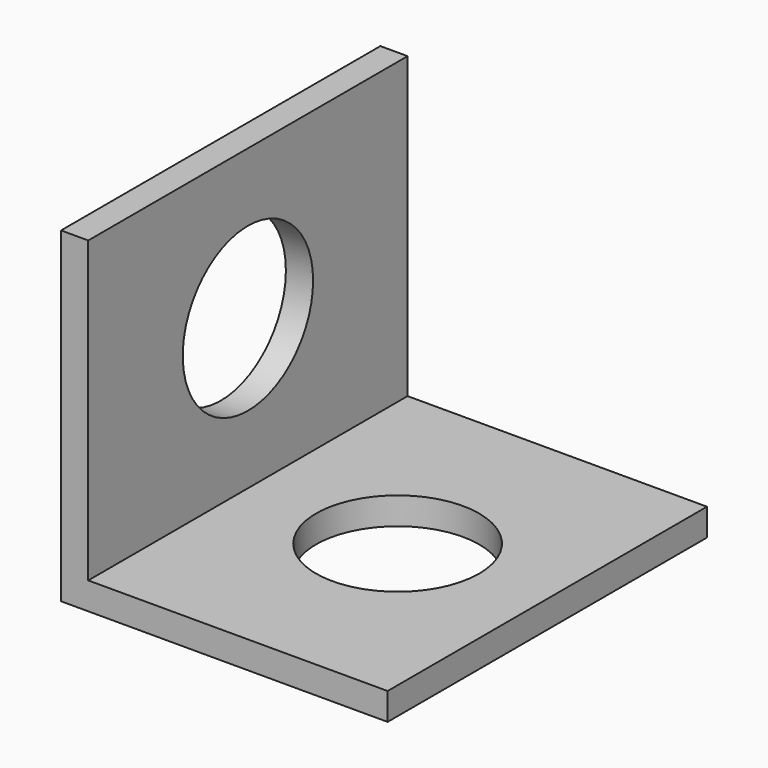
from build123d import *

# Parameters (mm, degrees)
F0_W          = 9.14383
F0_H          = 9.140982
F1_DEPTH      = 5.588
F1_DEPTH_BACK = 5.588
F2_T          = -0.762
F3_R          = 2.280613
F4_DEPTH      = 0.762
F5_R          = 2.282355
F6_DEPTH      = 0.762


with BuildPart() as f1:
    # F0 (on Front) → F1 (new body, two sides)
    with BuildSketch(Plane.XZ) as f1_sk:
        Rectangle(F0_W, F0_H)
    extrude(amount=F1_DEPTH)
    extrude(f1_sk.sketch, amount=-F1_DEPTH_BACK)

    # F2
    f2_openings = [f1.faces().sort_by_distance(p)[0] for p in [
        (0, 0, 4.570491),
        (4.571915, 0, 0),
        (0, -5.588, 0),
        (0, 5.588, 0),
    ]]
    offset(amount=F2_T, openings=f2_openings)

    # F3 (on face) → F4 (cut)
    with BuildSketch(Plane.YZ.offset(-3.809915)):
        with Locations((0, 0.381)):
            Circle(F3_R)
    extrude(amount=-F4_DEPTH, mode=Mode.SUBTRACT)

    # F5 (on face) → F6 (cut)
    with BuildSketch(Plane.XY.offset(-3.808491)):
        with Locations((0.381, 0)):
            Circle(F5_R)
    extrude(amount=-F6_DEPTH, mode=Mode.SUBTRACT)


solid = f1.part
